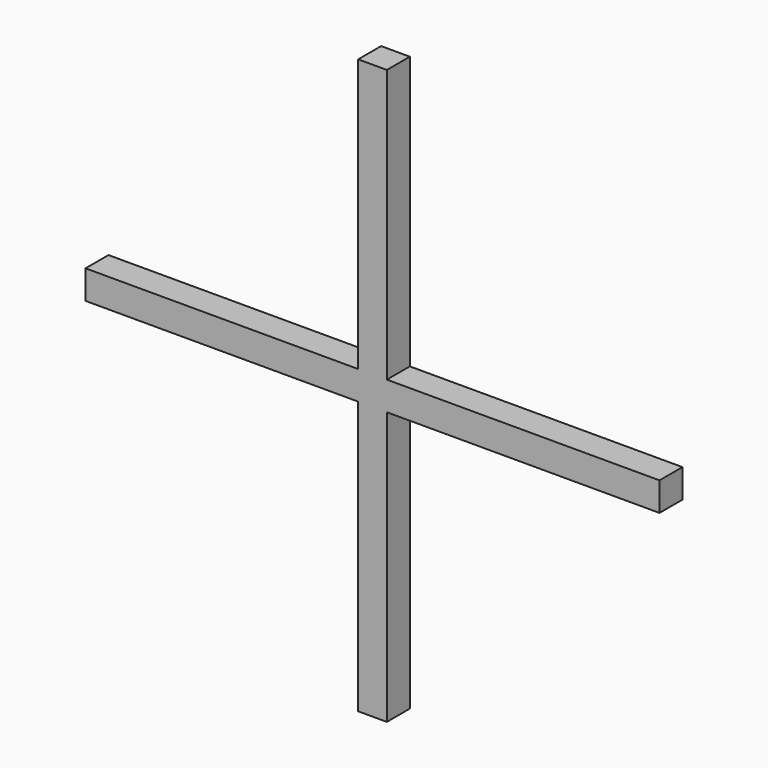
from build123d import *

# Parameters (mm, degrees)
F0_W     = 25
F0_H     = 250
F1_DEPTH = 25
F3_COUNT = 4


with BuildPart() as f1:
    # F0 (on Front) → F1 (new body)
    with BuildSketch(Plane.XZ):
        with Locations((12.5, 125)):
            Rectangle(F0_W, F0_H)
    extrude(amount=F1_DEPTH)


with BuildPart() as f3_1:
    # F3: instance of F1
    add(f1.part.rotate(Axis((12.5, -12.5, 0), (0, -1, 0)), 1 * 360 / F3_COUNT))


with BuildPart() as f3_2:
    # F3: instance of F1
    add(f1.part.rotate(Axis((12.5, -12.5, 0), (0, -1, 0)), 2 * 360 / F3_COUNT))


with BuildPart() as f3_3:
    # F3: instance of F1
    add(f1.part.rotate(Axis((12.5, -12.5, 0), (0, -1, 0)), 3 * 360 / F3_COUNT))


with BuildPart() as f3_2_1:
    add(f3_2.part)

    # F4: union F3_1, F1, F3_3
    add(f3_1.part)
    add(f1.part)
    add(f3_3.part)


solid = f3_2_1.part
